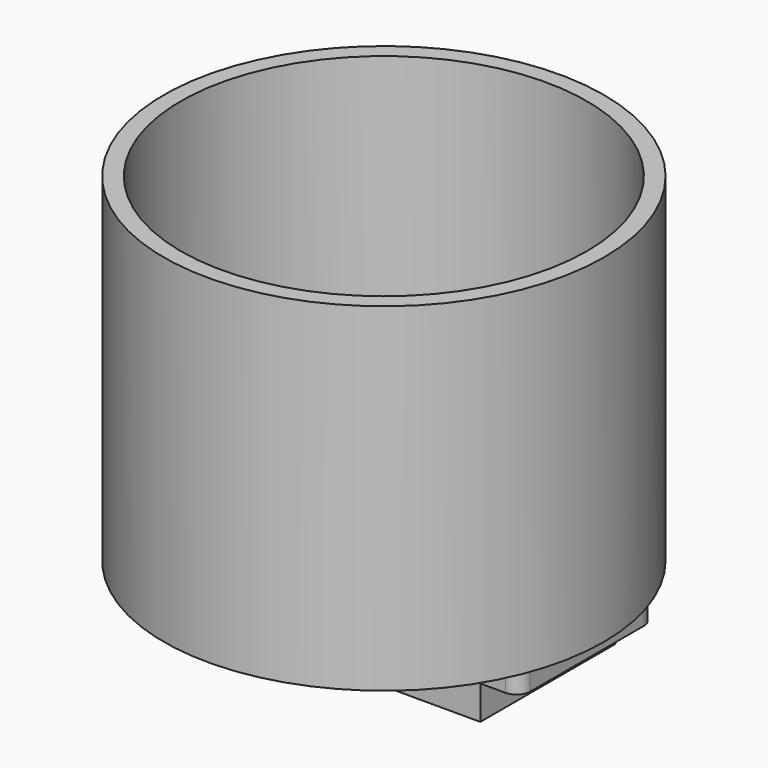
from build123d import *

# Parameters (mm, degrees)
F0_W      = 60
F0_H      = 25
F1_DEPTH  = 8
F2_W      = 5.75
F2_H      = 25
F2_W_2    = 3.45
F3_DEPTH  = 5
F5_DEPTH  = 8
F6_R      = 32.5
F7_DEPTH  = 50
F8_R      = 30
F9_DEPTH  = 50
F11_DEPTH = 5
F13_DEPTH = 8
F14_SIZE  = 1
F15_R     = 2


with BuildPart() as f1:
    # F0 (on Top) → F1 (new body)
    with BuildSketch(Plane.XY):
        Rectangle(F0_W, F0_H)
    extrude(amount=-F1_DEPTH)

    # F2 (on face) → F3 (cut)
    with BuildSketch(Plane(origin=(0, 0, -8), x_dir=(1, 0, 0), z_dir=(0, 0, -1))):
        with Locations((-27.125, 0)):
            Rectangle(F2_W, F2_H)
        with Locations((-9.025, 0)):
            Rectangle(F2_W_2, F2_H)
        with Locations((9.025, 0)):
            Rectangle(F2_W_2, F2_H)
        with Locations((27.125, 0)):
            Rectangle(F2_W, F2_H)
    extrude(amount=-F3_DEPTH, mode=Mode.SUBTRACT)

    # F4 (on face) → F5 (cut, through all)
    with BuildSketch(Plane(origin=(0, 0, -8), x_dir=(1, 0, 0), z_dir=(0, 0, -1))):
        Polygon((0, -5.831238), (5.05, -2.915619), (5.05, 2.915619), (0, 5.831238), (-5.05, 2.915619), (-5.05, -2.915619), align=None)
    extrude(amount=-F5_DEPTH, mode=Mode.SUBTRACT)

    # F15
    f15_edges = [f1.edges().sort_by_distance(p)[0] for p in [
        (30, 12.5, -1.5),
        (-30, 12.5, -1.5),
        (-30, -12.5, -1.5),
        (30, -12.5, -1.5),
    ]]
    fillet(f15_edges, radius=F15_R)


with BuildPart() as f7:
    # F6 (on Top) → F7 (new body)
    with BuildSketch(Plane.XY):
        Circle(F6_R)
    extrude(amount=F7_DEPTH)

    # F8 (on face) → F9 (cut, through all)
    with BuildSketch(Plane.XY.offset(50)):
        Circle(F8_R)
    extrude(amount=-F9_DEPTH, mode=Mode.SUBTRACT)


with BuildPart() as f11:
    # F10 (on Top) → F11 (new body)
    with BuildSketch(Plane.XY):
        with BuildLine():
            Line((-2.5, 2.5), (-7.071068, 2.5))
            ThreePointArc((-7.071068, 2.5), (-7.5, 0), (-7.071068, -2.5))
            Line((-7.071068, -2.5), (-2.5, -2.5))
            Line((-2.5, -2.5), (-2.5, -7.071068))
            ThreePointArc((-2.5, -7.071068), (0, -7.5), (2.5, -7.071068))
            Line((2.5, -7.071068), (2.5, -2.5))
            Line((2.5, -2.5), (7.071068, -2.5))
            ThreePointArc((7.071068, -2.5), (7.391989, -1.268265), (7.5, 0))
            ThreePointArc((7.5, 0), (7.391989, 1.268265), (7.071068, 2.5))
            Line((7.071068, 2.5), (2.5, 2.5))
            Line((2.5, 2.5), (2.5, 7.071068))
            ThreePointArc((2.5, 7.071068), (0, 7.5), (-2.5, 7.071068))
            Line((-2.5, 7.071068), (-2.5, 2.5))
        make_face()
        with BuildLine():
            Line((-7.071068, 2.5), (-29.895652, 2.5))
            ThreePointArc((-29.895652, 2.5), (-30, 0), (-29.895652, -2.5))
            Line((-29.895652, -2.5), (-7.071068, -2.5))
            ThreePointArc((-7.071068, -2.5), (-7.5, 0), (-7.071068, 2.5))
        make_face()
        with BuildLine():
            Line((29.895652, 2.5), (7.071068, 2.5))
            ThreePointArc((7.071068, 2.5), (7.391989, 1.268265), (7.5, 0))
            ThreePointArc((7.5, 0), (7.391989, -1.268265), (7.071068, -2.5))
            Line((7.071068, -2.5), (29.895652, -2.5))
            ThreePointArc((29.895652, -2.5), (30, 0), (29.895652, 2.5))
        make_face()
        with BuildLine():
            ThreePointArc((2.5, -7.071068), (0, -7.5), (-2.5, -7.071068))
            Line((-2.5, -7.071068), (-2.5, -29.895652))
            ThreePointArc((-2.5, -29.895652), (0, -30), (2.5, -29.895652))
            Line((2.5, -29.895652), (2.5, -7.071068))
        make_face()
        with BuildLine():
            Line((-2.5, 29.895652), (-2.5, 7.071068))
            ThreePointArc((-2.5, 7.071068), (0, 7.5), (2.5, 7.071068))
            Line((2.5, 7.071068), (2.5, 29.895652))
            ThreePointArc((2.5, 29.895652), (0, 30), (-2.5, 29.895652))
        make_face()
        with BuildLine():
            ThreePointArc((-2.5, 7.071068), (-5.303301, 5.303301), (-7.071068, 2.5))
            Line((-7.071068, 2.5), (-2.5, 2.5))
            Line((-2.5, 2.5), (-2.5, 7.071068))
        make_face()
        with BuildLine():
            ThreePointArc((7.071068, 2.5), (5.303301, 5.303301), (2.5, 7.071068))
            Line((2.5, 7.071068), (2.5, 2.5))
            Line((2.5, 2.5), (7.071068, 2.5))
        make_face()
        with BuildLine():
            Line((2.5, -2.5), (2.5, -7.071068))
            ThreePointArc((2.5, -7.071068), (5.303301, -5.303301), (7.071068, -2.5))
            Line((7.071068, -2.5), (2.5, -2.5))
        make_face()
        with BuildLine():
            Line((-2.5, -2.5), (-7.071068, -2.5))
            ThreePointArc((-7.071068, -2.5), (-5.303301, -5.303301), (-2.5, -7.071068))
            Line((-2.5, -7.071068), (-2.5, -2.5))
        make_face()
    extrude(amount=F11_DEPTH)

    # F12 (on face) → F13 (join)
    with BuildSketch(Plane(origin=(0, 0, 0), x_dir=(1, 0, 0), z_dir=(0, 0, -1))):
        Polygon((0, -5.773503), (5, -2.886751), (5, 2.886751), (0, 5.773503), (-5, 2.886751), (-5, -2.886751), align=None)
    extrude(amount=F13_DEPTH)

    # F14
    f14_edges = [f11.edges().sort_by_distance(p)[0] for p in [
        (2.5, 4.330127, -8),
        (5, 0, -8),
        (2.5, -4.330127, -8),
        (-2.5, -4.330127, -8),
        (-5, 0, -8),
        (-2.5, 4.330127, -8),
    ]]
    chamfer(f14_edges, length=F14_SIZE)


solid = Compound([f1.part, f7.part, f11.part])
